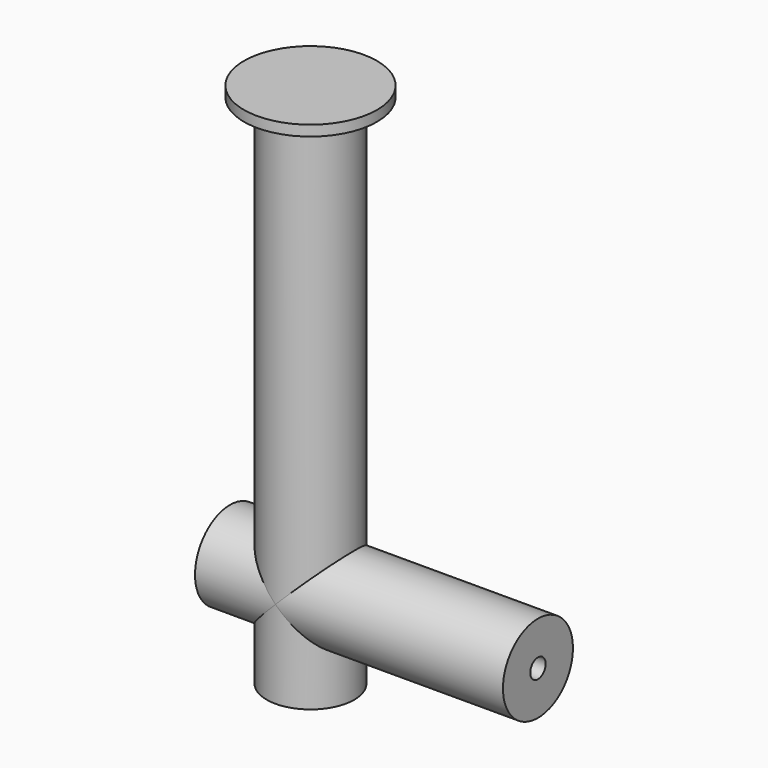
from build123d import *

# Parameters (mm, degrees)
F0_R            = 12.5
F1_DEPTH        = 122.5
F2_R            = 12.5
F3_DEPTH        = 65
F4_DEPTH        = 23
F5_DEPTH        = 25
F6_R            = 19
F7_DEPTH        = 3
F8_R            = 5.5
F9_DEPTH        = 28
F11_D           = 5.5
F11_DEPTH       = 100
F11_CSINK_D     = 11
F11_CSINK_ANGLE = 90


with BuildPart() as f1:
    # F0 (on Top) → F1 (new body)
    with BuildSketch(Plane.XY):
        Circle(F0_R)
    extrude(amount=F1_DEPTH)

    # F2 (on Right) → F3 (join)
    with BuildSketch(Plane.YZ):
        Circle(F2_R)
    extrude(amount=F3_DEPTH)

    # F2 (on Right) → F4 (join)
    with BuildSketch(Plane.YZ):
        Circle(F2_R)
    extrude(amount=-F4_DEPTH)

    # F0 (on Top) → F5 (join)
    with BuildSketch(Plane.XY):
        Circle(F0_R)
    extrude(amount=-F5_DEPTH)

    # F6 (on face) → F7 (join)
    with BuildSketch(Plane.XY.offset(122.5)):
        Circle(F6_R)
    extrude(amount=F7_DEPTH)

    # F8 (on face) → F9 (cut)
    with BuildSketch(Plane(origin=(-23, 0, 0), x_dir=(0, -1, 0), z_dir=(-1, 0, 0))):
        Circle(F8_R)
    extrude(amount=-F9_DEPTH, mode=Mode.SUBTRACT)

    # F11
    with Locations(Plane(origin=(5, 0, 0), x_dir=(0, -1, 0), z_dir=(-1, 0, 0))):
        with Locations((0, 0)):
            CounterSinkHole(F11_D / 2, F11_CSINK_D / 2, depth=F11_DEPTH, counter_sink_angle=F11_CSINK_ANGLE)


solid = f1.part
